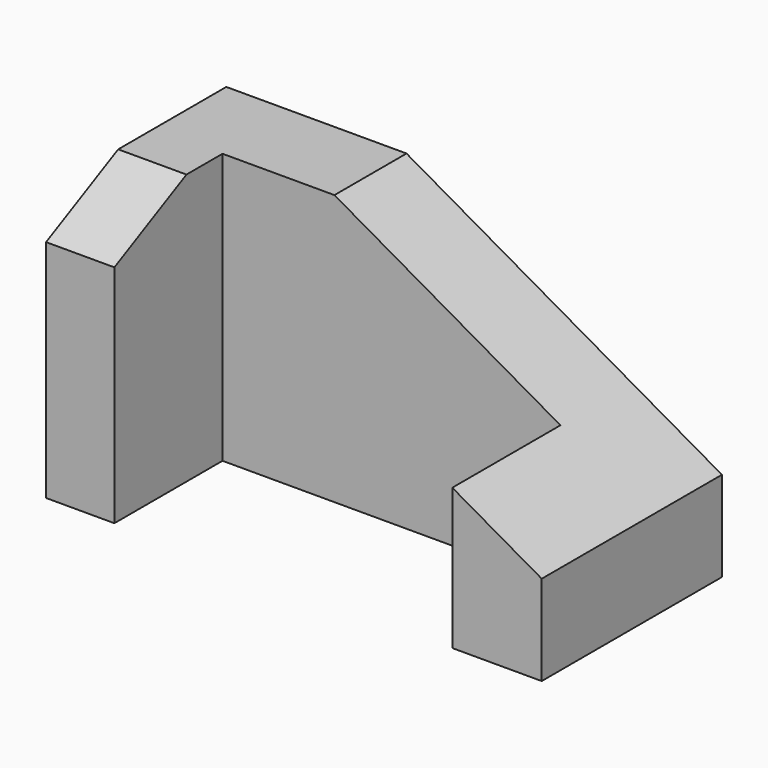
from build123d import *

# Parameters (mm, degrees)
F1_DEPTH = 50
F2_W     = 75
F2_H     = 30
F3_DEPTH = 60
F5_DEPTH = 56


with BuildPart() as f1:
    # F0 (on Front) → F1 (new body)
    with BuildSketch(Plane.XZ):
        Polygon((-55.158045, 60), (-55.158045, 0), (54.841955, 0), (54.841955, 20), (-15.158045, 60), align=None)
    extrude(amount=F1_DEPTH)

    # F2 (on Top) → F3 (cut)
    with BuildSketch(Plane.XY):
        with Locations((-2.5, -35)):
            Rectangle(F2_W, F2_H)
    extrude(amount=F3_DEPTH, mode=Mode.SUBTRACT)

    # F4 (on Right) → F5 (cut, symmetric)
    with BuildSketch(Plane.YZ):
        Polygon((-50, 50), (-30, 60), (-50, 60), align=None)
    extrude(amount=F5_DEPTH, both=True, mode=Mode.SUBTRACT)


solid = f1.part
